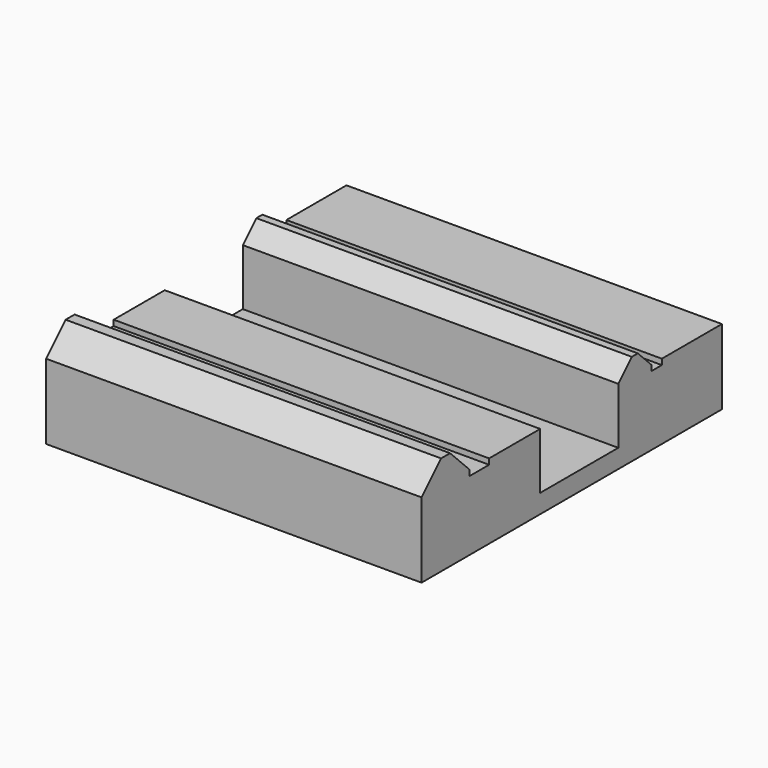
from build123d import *

# Parameters (mm, degrees)
F1_DEPTH = 100


with BuildPart() as f1:
    # F0 (on Right) → F1 (new body)
    with BuildSketch(Plane.YZ):
        Polygon((6.5, 6.5), (0, 0), (0, -20), (100, -20), (100, 0), (80, 0), (80, -1.5), (76.5, -1.5), (76.5, 0), (72, 4.5), (70, 4.5), (65.5, 0), (65.5, -15), (39.5, -15), (39.5, 0), (22.5, 0), (22.5, -1.5), (16, -1.5), (16, 0), (9.5, 6.5), align=None)
        Polygon((6.5, 6.5), (0, 0), (0, -20), (100, -20), (100, 0), (80, 0), (80, -1.5), (76.5, -1.5), (76.5, 0), (72, 4.5), (70, 4.5), (65.5, 0), (65.5, -15), (39.5, -15), (39.5, 0), (22.5, 0), (22.5, -1.5), (16, -1.5), (16, 0), (9.5, 6.5), align=None)
    extrude(amount=F1_DEPTH)


solid = f1.part
